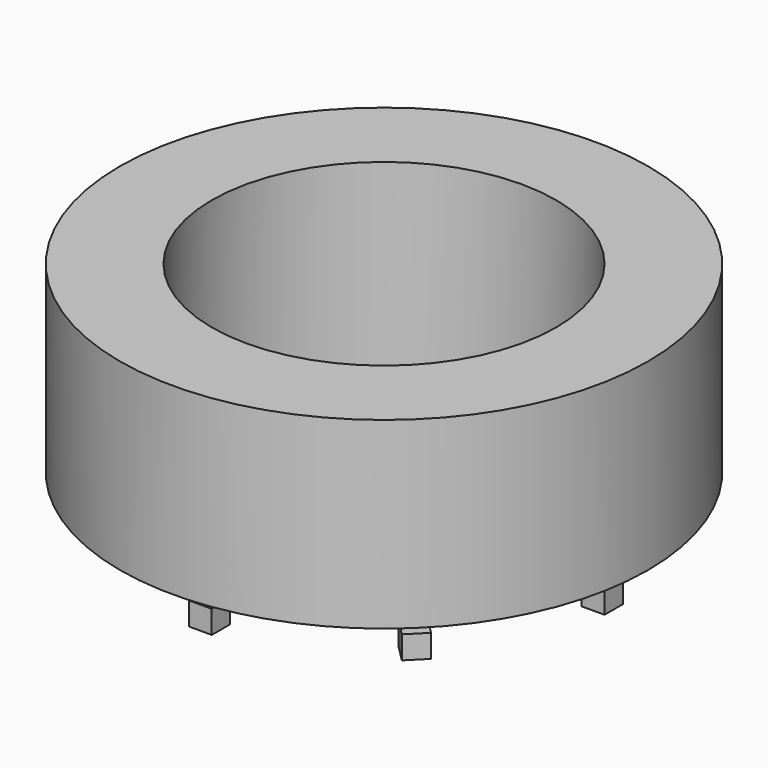
from build123d import *

# Parameters (mm, degrees)
F0_W     = 1
F0_H     = 1
F1_DEPTH = 0.5
F2_COUNT = 8
F3_R     = 11.5
F3_R_2   = 7.5
F4_DEPTH = 8


with BuildPart() as f1:
    # F0 (on Right) → F1 (new body, symmetric)
    with BuildSketch(Plane.YZ):
        with Locations((9.5, -1.5)):
            Rectangle(F0_W, F0_H)
    extrude(amount=F1_DEPTH, both=True)


with BuildPart() as f2_1:
    # F2: instance of F1
    add(f1.part.rotate(Axis((0, 0, 1.566088), (0, 0, -1)), 1 * 360 / F2_COUNT))


with BuildPart() as f2_2:
    # F2: instance of F1
    add(f1.part.rotate(Axis((0, 0, 1.566088), (0, 0, -1)), 2 * 360 / F2_COUNT))


with BuildPart() as f2_3:
    # F2: instance of F1
    add(f1.part.rotate(Axis((0, 0, 1.566088), (0, 0, -1)), 3 * 360 / F2_COUNT))


with BuildPart() as f2_4:
    # F2: instance of F1
    add(f1.part.rotate(Axis((0, 0, 1.566088), (0, 0, -1)), 4 * 360 / F2_COUNT))


with BuildPart() as f2_5:
    # F2: instance of F1
    add(f1.part.rotate(Axis((0, 0, 1.566088), (0, 0, -1)), 5 * 360 / F2_COUNT))


with BuildPart() as f2_6:
    # F2: instance of F1
    add(f1.part.rotate(Axis((0, 0, 1.566088), (0, 0, -1)), 6 * 360 / F2_COUNT))


with BuildPart() as f2_7:
    # F2: instance of F1
    add(f1.part.rotate(Axis((0, 0, 1.566088), (0, 0, -1)), 7 * 360 / F2_COUNT))


with BuildPart() as f4:
    # F3 (on Top) → F4 (new body)
    with BuildSketch(Plane.XY):
        Circle(F3_R)
        Circle(F3_R_2, mode=Mode.SUBTRACT)
    extrude(amount=F4_DEPTH)


solid = Compound([f1.part, f2_1.part, f2_2.part, f2_3.part, f2_4.part, f2_5.part, f2_6.part, f2_7.part, f4.part])
